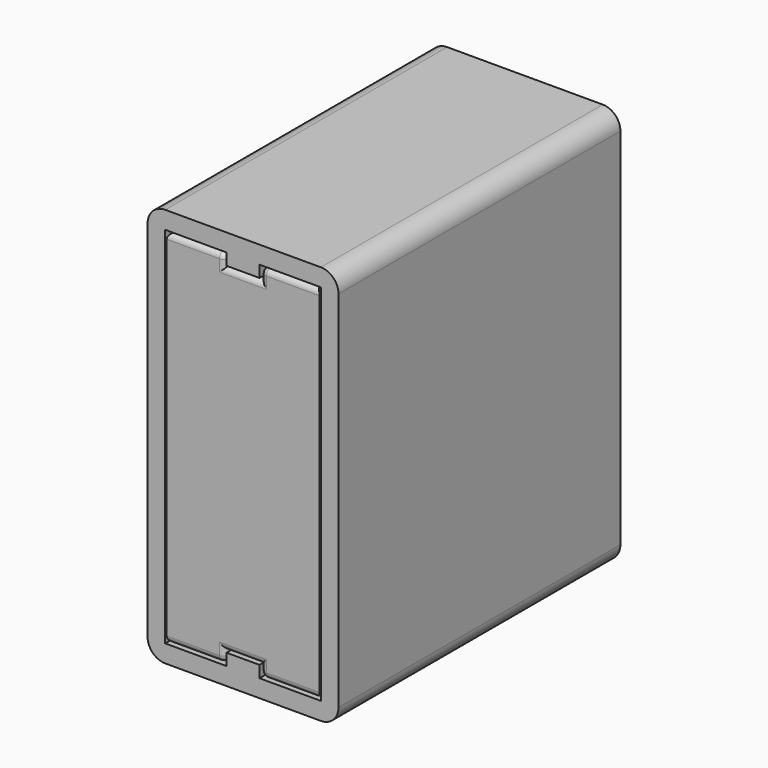
from build123d import *

# Parameters (mm, degrees)
SKETCH001_W             = 30
SKETCH001_H             = 30.729674
PAD_DEPTH               = 6.5
SKETCH002_W             = 1
SKETCH002_H             = 3
POCKET_DEPTH            = 27.5
FILLET_R                = 0.5
BODY002_PLACEMENT_ANGLE = 180
SKETCH003_W             = 13.25
SKETCH003_H             = 31
PAD001_DEPTH            = 28
PAD001_DEPTH_BACK       = 2
SKETCH004_W             = 2.8
SKETCH004_H             = 1
PAD002_DEPTH            = 1.5


with BuildPart() as innerbody:
    # Sketch001 → Pad (new body, symmetric)
    with BuildSketch(Plane.YZ):
        with Locations((13, 6.864837)):
            Rectangle(SKETCH001_W, SKETCH001_H)
        with BuildLine():
            Line((0, -6.5), (0, 6.5))
            Line((0, 6.5), (19.779679, 5.492884))
            ThreePointArc((19.779679, -5.492884), (25, 0), (19.779679, 5.492884))
            Line((19.779679, -5.492884), (0, -6.5))
        make_face(mode=Mode.SUBTRACT)
        with BuildLine():
            Line((25, 7.229674), (25, 20.229674))
            Line((25, 20.229674), (5.220321, 19.222558))
            ThreePointArc((5.220321, 19.222558), (0, 13.729674), (5.220321, 8.236789))
            Line((5.220321, 8.236789), (25, 7.229674))
        make_face(mode=Mode.SUBTRACT)
    extrude(amount=PAD_DEPTH, both=True)

    # Sketch002 (on Face1 of Pad) → Pocket (cut)
    with BuildSketch(Plane(origin=(0, -2, 0), x_dir=(0, 0, -1), z_dir=(0, -1, 0))):
        with Locations((-21.729674, 0)):
            Rectangle(SKETCH002_W, SKETCH002_H)
        with Locations((8, 0)):
            Rectangle(SKETCH002_W, SKETCH002_H)
    extrude(amount=-POCKET_DEPTH, mode=Mode.SUBTRACT)

    # Fillet
    fillet_edges = [innerbody.edges().sort_by_distance(p)[0] for p in [
        (-6.5, 25, 0),
        (-6.5, 0, 0),
        (-6.5, 15.11016, 7.733232),
        (-6.5, 25, 13.729674),
        (-6.5, 13, -8.5),
        (-6.5, 13, 22.229674),
        (6.5, 13, -8.5),
        (1.5, 11.75, -8.5),
        (-1.5, 11.75, -8.5),
        (-4, -2, -8.5),
        (4, -2, -8.5),
        (0, 28, -8.5),
        (-4, -2, 22.229674),
        (4, -2, 22.229674),
        (6.5, 13, 22.229674),
        (1.5, 11.75, 22.229674),
        (-1.5, 11.75, 22.229674),
        (0, 28, 22.229674),
        (0, -2, -7.5),
        (0, -2, 21.229674),
        (-1.5, -2, -8),
        (1.5, -2, -8),
        (1.5, -2, 21.729674),
        (-1.5, -2, 21.729674),
        (6.5, 9.88984, 5.996442),
        (6.5, 0, 0),
        (6.5, 15.11016, 19.726116),
        (6.5, 25, 13.729674),
        (0, 0, 6.5),
        (0, 0, -6.5),
        (0, 25, 20.229674),
        (0, 25, 7.229674),
    ]]
    fillet(fillet_edges, radius=FILLET_R)


with BuildPart() as body002:
    # Sketch → Revolution (revolve)
    with BuildSketch(Plane.XY):
        with BuildLine():
            Line((0, 0), (-6.5, 0))
            Line((-6.5, 0), (-5.492884, 19.779679))
            ThreePointArc((0, 25), (-3.788916, 23.486743), (-5.492884, 19.779679))
            Line((0, 25), (0, 0))
        make_face()
    revolve(axis=Axis((0, 0, 0), (0, 1, 0)))


with BuildPart() as body002_1:
    # Body002 placement: moved
    add(body002.part.moved(Location((0, 25, 13.75))).rotate(Axis((0, 25, 13.75), (1, 0, 0)), BODY002_PLACEMENT_ANGLE))


with BuildPart() as outerbody:
    # Sketch003 → Pad001 (new body, two sides)
    with BuildSketch(Plane.XZ) as pad001_sk:
        with BuildLine():
            Line((-8.125, 22.4), (-8.125, -8.6))
            ThreePointArc((-8.125, -8.6), (-7.68566, -9.66066), (-6.625, -10.1))
            Line((-6.625, -10.1), (6.625, -10.1))
            ThreePointArc((6.625, -10.1), (7.68566, -9.66066), (8.125, -8.6))
            Line((8.125, -8.6), (8.125, 22.4))
            ThreePointArc((8.125, 22.4), (7.68566, 23.46066), (6.625, 23.9))
            Line((6.625, 23.9), (-6.625, 23.9))
            ThreePointArc((-6.625, 23.9), (-7.68566, 23.46066), (-8.125, 22.4))
        make_face()
        with Locations((0, 6.9)):
            Rectangle(SKETCH003_W, SKETCH003_H, mode=Mode.SUBTRACT)
    extrude(amount=-PAD001_DEPTH)
    extrude(pad001_sk.sketch, amount=PAD001_DEPTH_BACK)

    # Sketch004 (on Face14 of Pad001) → Pad002 (join)
    with BuildSketch(Plane.XZ.offset(2)):
        with Locations((0, 21.9)):
            Rectangle(SKETCH004_W, SKETCH004_H)
        with Locations((0, -8.1)):
            Rectangle(SKETCH004_W, SKETCH004_H)
    extrude(amount=-PAD002_DEPTH)


solid = Compound([innerbody.part, body002_1.part, outerbody.part])
